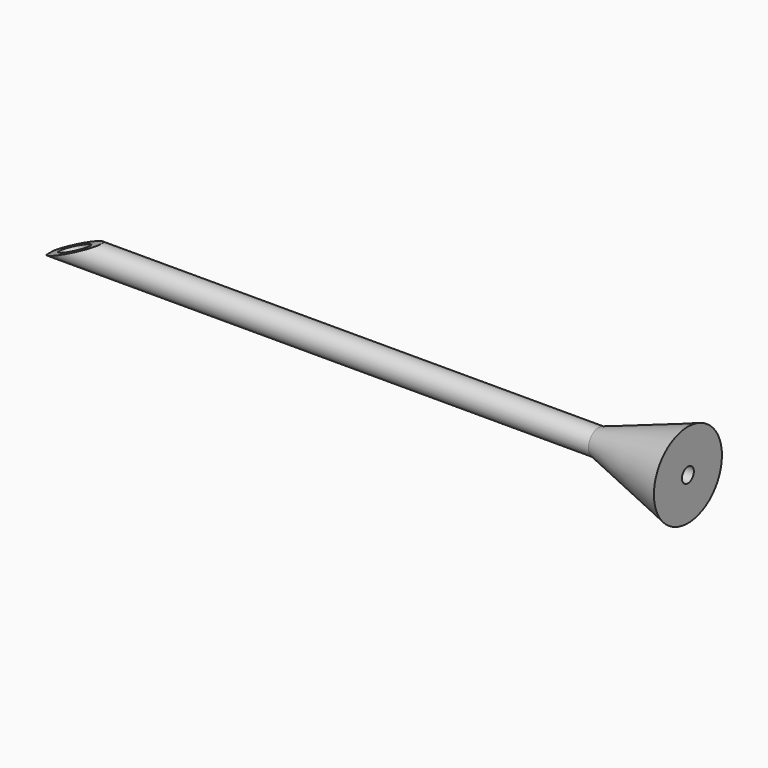
from build123d import *

# Parameters (mm, degrees)
F2_R     = 0.3
F3_DEPTH = 15
F5_DEPTH = 25
F6_DEPTH = 25
F7_R     = 0.175
F8_DEPTH = 25


with BuildPart() as f1:
    # F0 (on Front) → F1 (revolve)
    with BuildSketch(Plane.XZ):
        Polygon((-3, 0), (0, 0), (0, 1), align=None)
    revolve(axis=Axis((-1.5, 0, 0), (-1, 0, 0)))

    # F2 (on Right) → F3 (join)
    with BuildSketch(Plane.YZ):
        Circle(F2_R)
    extrude(amount=-F3_DEPTH)

    # F4 (on Front) → F5 (cut)
    with BuildSketch(Plane.XZ):
        Polygon((-15.222519, 0.32419), (-15.002024, -0.277158), (-13.739192, 0.32419), align=None)
    extrude(amount=-F5_DEPTH, mode=Mode.SUBTRACT)

    # F4 (on Front) → F6 (cut)
    with BuildSketch(Plane.XZ):
        Polygon((-15.222519, 0.32419), (-15.002024, -0.277158), (-13.739192, 0.32419), align=None)
    extrude(amount=F6_DEPTH, mode=Mode.SUBTRACT)

    # F7 (on face) → F8 (cut)
    with BuildSketch(Plane.YZ):
        Circle(F7_R)
    extrude(amount=-F8_DEPTH, mode=Mode.SUBTRACT)


solid = f1.part
